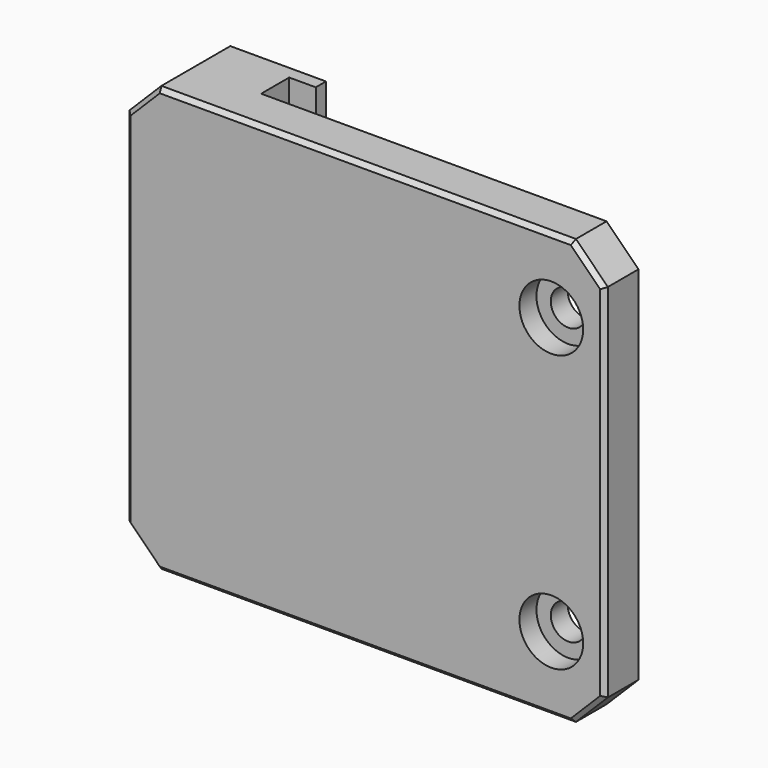
from build123d import *

# Parameters (mm, degrees)
BOX024_W          = 10
BOX024_H          = 10
BOX024_DEPTH      = 26
CHAMFER026_SIZE   = 5
CYLINDER021_R     = 3
CYLINDER021_DEPTH = 2
CYLINDER020_R     = 3
CYLINDER020_DEPTH = 2
CYLINDER018_R     = 1.65
CYLINDER018_DEPTH = 10
CYLINDER019_R     = 1.65
CYLINDER019_DEPTH = 10
BOX020_W          = 9.5
BOX020_H          = 4.5
BOX020_DEPTH      = 40
BOX021_W          = 7
BOX021_H          = 1.2
BOX021_DEPTH      = 40
BOX_W             = 5
BOX_H             = 1.5
BOX_DEPTH         = 19.5
BOX019_W          = 45
BOX019_H          = 4
BOX019_DEPTH      = 40
CHAMFER019_SIZE   = 1.49
CHAMFER020_SIZE   = 3
CHAMFER025_SIZE   = 3
CHAMFER027_SIZE   = 0.4


with BuildPart() as chamfer026:
    # Box024 → Box024 (new body)
    with BuildSketch(Plane(origin=(-20, -5, 7), x_dir=(1, 0, 0), z_dir=(0, 0, 1))):
        with Locations((5, 5)):
            Rectangle(BOX024_W, BOX024_H)
    extrude(amount=BOX024_DEPTH)

    # Chamfer026
    chamfer026_edges = [chamfer026.edges().sort_by_distance(p)[0] for p in [
        (-15, -5, 7),
        (-15, -5, 33),
    ]]
    chamfer(chamfer026_edges, length=CHAMFER026_SIZE)


with BuildPart() as cylinder021:
    # Cylinder021 → Cylinder021 (new body)
    with BuildSketch(Plane(origin=(25, -9, 7), x_dir=(1, 0, 0), z_dir=(0, 1, 0))):
        Circle(CYLINDER021_R)
    extrude(amount=CYLINDER021_DEPTH)


with BuildPart() as fusion001026:
    # Cylinder020 → Cylinder020 (new body)
    with BuildSketch(Plane(origin=(25, -9, 33), x_dir=(1, 0, 0), z_dir=(0, 1, 0))):
        Circle(CYLINDER020_R)
    extrude(amount=CYLINDER020_DEPTH)

    # Fusion001026: union Cylinder021
    add(cylinder021.part)


with BuildPart() as cylinder018:
    # Cylinder018 → Cylinder018 (new body)
    with BuildSketch(Plane(origin=(25, -9, 7), x_dir=(1, 0, 0), z_dir=(0, 1, 0))):
        Circle(CYLINDER018_R)
    extrude(amount=CYLINDER018_DEPTH)


with BuildPart() as fusion001024:
    # Cylinder019 → Cylinder019 (new body)
    with BuildSketch(Plane(origin=(25, -9, 33), x_dir=(1, 0, 0), z_dir=(0, 1, 0))):
        Circle(CYLINDER019_R)
    extrude(amount=CYLINDER019_DEPTH)

    # Fusion001024: union Cylinder018
    add(cylinder018.part)


with BuildPart() as cube019:
    # Box020 → Box020 (new body)
    with BuildSketch(Plane(origin=(-15, -5, 0), x_dir=(1, 0, 0), z_dir=(0, 0, 1))):
        with Locations((4.75, 2.25)):
            Rectangle(BOX020_W, BOX020_H)
    extrude(amount=BOX020_DEPTH)


with BuildPart() as cube020:
    # Box021 → Box021 (new body)
    with BuildSketch(Plane(origin=(-10, -1.7, 0), x_dir=(1, 0, 0), z_dir=(0, 0, 1))):
        with Locations((3.5, 0.6)):
            Rectangle(BOX021_W, BOX021_H)
    extrude(amount=BOX021_DEPTH)


with BuildPart() as cube:
    # Box → Box (new body)
    with BuildSketch(Plane(origin=(2.5, -6.5, 10.5), x_dir=(1, 0, 0), z_dir=(0, 0, 1))):
        with Locations((2.5, 0.75)):
            Rectangle(BOX_W, BOX_H)
    extrude(amount=BOX_DEPTH)


with BuildPart() as chamfer027:
    # Box019 → Box019 (new body)
    with BuildSketch(Plane(origin=(-15, -9, 0), x_dir=(1, 0, 0), z_dir=(0, 0, 1))):
        with Locations((22.5, 2)):
            Rectangle(BOX019_W, BOX019_H)
    extrude(amount=BOX019_DEPTH)

    # Cut001005004006024008: cut Cube
    add(cube.part, mode=Mode.SUBTRACT)

    # Chamfer019
    chamfer019_edges = [chamfer027.edges().sort_by_distance(p)[0] for p in [
        (5, -5, 30),
    ]]
    chamfer(chamfer019_edges, length=CHAMFER019_SIZE)

    # Chamfer020
    chamfer020_edges = [chamfer027.edges().sort_by_distance(p)[0] for p in [
        (30, -7, 0),
        (30, -7, 40),
    ]]
    chamfer(chamfer020_edges, length=CHAMFER020_SIZE)

    # Fusion001025: union Cube019, Cube020
    add(cube019.part)
    add(cube020.part)

    # Chamfer025
    chamfer025_edges = [chamfer027.edges().sort_by_distance(p)[0] for p in [
        (-15, -2.75, 40),
        (-15, -2.75, 0),
        (-15, -7, 40),
        (-15, -7, 0),
    ]]
    chamfer(chamfer025_edges, length=CHAMFER025_SIZE)

    # Cut001005004006024012002: cut Fusion001024
    add(fusion001024.part, mode=Mode.SUBTRACT)

    # Cut001005004006024012003: cut Fusion001026
    add(fusion001026.part, mode=Mode.SUBTRACT)

    # Cut001005004006024012004: cut Chamfer026
    add(chamfer026.part, mode=Mode.SUBTRACT)

    # Chamfer027
    chamfer027_edges = [chamfer027.edges().sort_by_distance(p)[0] for p in [
        (-15, -9, 20),
        (7.5, -9, 0),
        (-13.5, -9, 1.5),
        (28.5, -9, 1.5),
        (30, -9, 20),
        (-13.5, -9, 38.5),
        (28.5, -9, 38.5),
        (7.5, -9, 40),
    ]]
    chamfer(chamfer027_edges, length=CHAMFER027_SIZE)


solid = chamfer027.part
